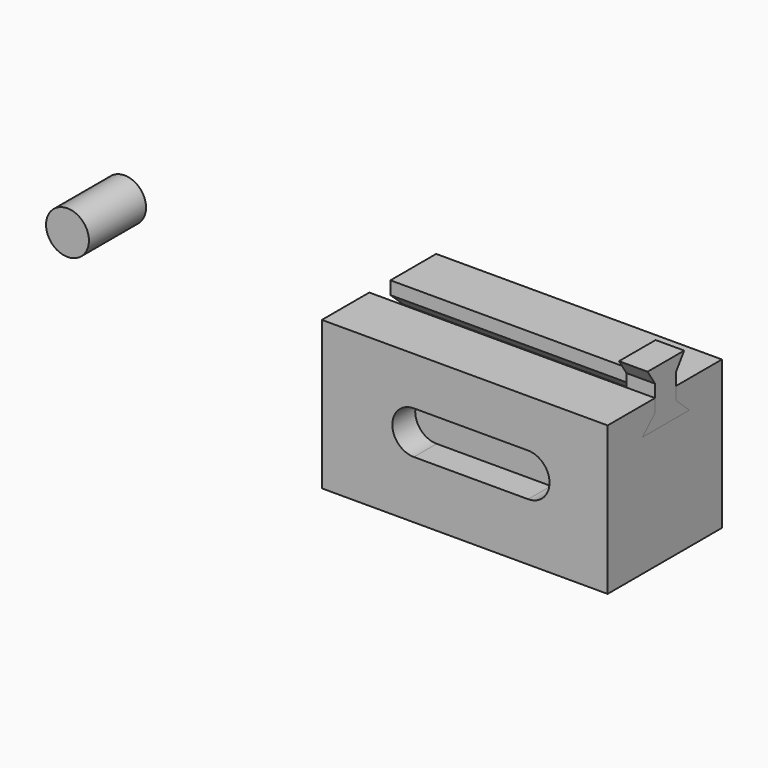
from build123d import *

# Parameters (mm, degrees)
F0_W     = 25.4
F0_H     = 26.373182479
F1_DEPTH = 50.8
F3_DEPTH = 50.8
F5_DEPTH = 45.72
F6_R     = 3.81
F7_DEPTH = 12.7
F8_W     = 20.32
F8_H     = 7.62
F9_DEPTH = 5.08


with BuildPart() as f1:
    # F0 (on Right) → F1 (new body)
    with BuildSketch(Plane.YZ):
        with Locations((-12.7, 13.1865912395)):
            Rectangle(F0_W, F0_H)
    extrude(amount=F1_DEPTH)


with BuildPart() as f3:
    # F2 (on Right) → F3 (new body)
    with BuildSketch(Plane.YZ):
        Polygon((-10.1633993909, 28.6276564002), (-8.3837173879, 31.1700608581), (-16.5194068104, 31.1700608581), (-14.8668456823, 28.6276564002), (-14.8668456823, 24.0513309836), (-17.6634881645, 21.3818084449), (-7.2396355681, 21.3818084449), (-10.1633993909, 24.0513309836), align=None)
    extrude(amount=F3_DEPTH)


with BuildPart() as f1_1:
    add(f1.part)

    # F4: cut F3
    add(f3.part, mode=Mode.SUBTRACT)


with BuildPart() as f3_1:
    add(f3.part)

    # F5 (cut): a face of the model
    f5_faces = [f3_1.faces().sort_by_distance(p)[0] for p in [
        (0, -12.4929387218, 26.0533462896),
    ]]
    extrude(f5_faces, amount=-F5_DEPTH, mode=Mode.SUBTRACT)


with BuildPart() as f7:
    # F6 (on Front) → F7 (new body)
    with BuildSketch(Plane.XZ):
        with Locations((-55.3915388882, 16.8495215476)):
            Circle(F6_R)
    extrude(amount=F7_DEPTH)


with BuildPart() as f9:
    # F8 (on Front) → F9 (new body)
    with BuildSketch(Plane.XZ):
        with Locations((-46.6563001151, 5.2465574117)):
            Rectangle(F8_W, F8_H)
        with BuildLine():
            ThreePointArc((-36.4963001151, 1.4365574117), (-32.6863001151, 5.2465574117), (-36.4963001151, 9.0565574117))
            Line((-36.4963001151, 9.0565574117), (-36.4963001151, 1.4365574117))
        make_face()
        with BuildLine():
            Line((-56.8163001151, 1.4365574117), (-56.8163001151, 9.0565574117))
            ThreePointArc((-56.8163001151, 9.0565574117), (-60.6263001151, 5.2465574117), (-56.8163001151, 1.4365574117))
        make_face()
    extrude(amount=F9_DEPTH)


with BuildPart() as f9_1:
    # F10: moved
    add(f9.part.moved(Location((73.15403, -20.32, 8.79203))))


with BuildPart() as f1_2:
    add(f1_1.part)

    # F11: cut F9
    add(f9_1.part, mode=Mode.SUBTRACT)


solid = Compound([f3_1.part, f7.part, f1_2.part])
